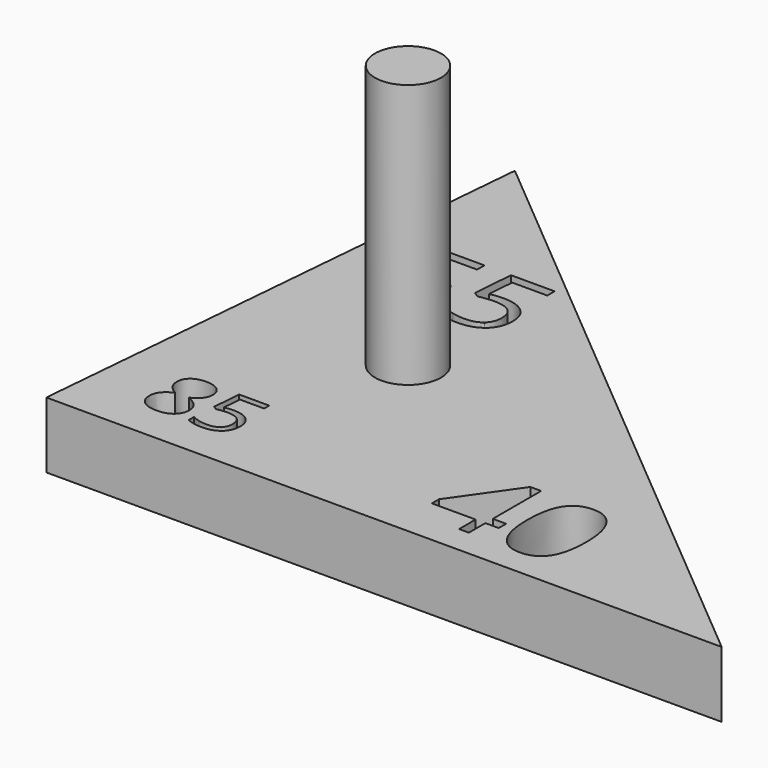
from build123d import *

# Parameters (mm, degrees)
F1_DEPTH = 6.35
F2_R     = 3.175
F3_DEPTH = 25.4


with BuildPart() as f1:
    # F0 (on Top) → F1 (new body)
    with BuildSketch(Plane.XY):
        Polygon((0, 0), (-60.5410825038, 50.8), (-64.9855066109, 0), align=None)
        with BuildLine():
            add(Edge.make_bspline(
                [(-58.459534205, 9.1367480254), (-57.9914250831, 9.5130210253), (-57.2057160392, 9.5130210253)],
                knots=[0, 0, 0, 1, 1, 1], degree=2))
            add(Edge.make_bspline(
                [(-57.2057160392, 9.5130210253), (-56.4085274801, 9.5130210253), (-55.9423316107, 9.142487783)],
                knots=[0, 0, 0, 1, 1, 1], degree=2))
            add(Edge.make_bspline(
                [(-55.9423316107, 9.142487783), (-55.4761357414, 8.7719545407), (-55.4761357414, 8.1188976731)],
                knots=[0, 0, 0, 1, 1, 1], degree=2))
            add(Edge.make_bspline(
                [(-55.4761357414, 8.1188976731), (-55.4761357414, 7.6877781003), (-55.7427155955, 7.3331886292)],
                knots=[0, 0, 0, 1, 1, 1], degree=2))
            add(Edge.make_bspline(
                [(-55.7427155955, 7.3331886292), (-56.0092954497, 6.9785991581), (-56.5960262292, 6.6877847718)],
                knots=[0, 0, 0, 1, 1, 1], degree=2))
            add(Edge.make_bspline(
                [(-56.5960262292, 6.6877847718), (-55.886847287, 6.348501321), (-55.5877421397, 5.9760548262)],
                knots=[0, 0, 0, 1, 1, 1], degree=2))
            add(Edge.make_bspline(
                [(-55.5877421397, 5.9760548262), (-55.2886369923, 5.6036083314), (-55.2886369923, 5.1125401789)],
                knots=[0, 0, 0, 1, 1, 1], degree=2))
            add(Edge.make_bspline(
                [(-55.2886369923, 5.1125401789), (-55.2886369923, 4.3880552164), (-55.795011165, 3.9550223911)],
                knots=[0, 0, 0, 1, 1, 1], degree=2))
            add(Edge.make_bspline(
                [(-55.795011165, 3.9550223911), (-56.3013853378, 3.5219895658), (-57.181481507, 3.5219895658)],
                knots=[0, 0, 0, 1, 1, 1], degree=2))
            add(Edge.make_bspline(
                [(-57.181481507, 3.5219895658), (-58.1138732458, 3.5219895658), (-58.6164209134, 3.9307878589)],
                knots=[0, 0, 0, 1, 1, 1], degree=2))
            add(Edge.make_bspline(
                [(-58.6164209134, 3.9307878589), (-59.1189685811, 4.339586152), (-59.1189685811, 5.0895811484)],
                knots=[0, 0, 0, 1, 1, 1], degree=2))
            add(Edge.make_bspline(
                [(-59.1189685811, 5.0895811484), (-59.1189685811, 6.089574477), (-57.8995889611, 6.6482442192)],
                knots=[0, 0, 0, 1, 1, 1], degree=2))
            add(Edge.make_bspline(
                [(-57.8995889611, 6.6482442192), (-58.4493301915, 6.958191131), (-58.6884867592, 7.3191581106)],
                knots=[0, 0, 0, 1, 1, 1], degree=2))
            add(Edge.make_bspline(
                [(-58.6884867592, 7.3191581106), (-58.9276433269, 7.6801250901), (-58.9276433269, 8.1265506833)],
                knots=[0, 0, 0, 1, 1, 1], degree=2))
            add(Edge.make_bspline(
                [(-58.9276433269, 8.1265506833), (-58.9276433269, 8.7604750255), (-58.459534205, 9.1367480254)],
                knots=[0, 0, 0, 1, 1, 1], degree=2))
        make_face(mode=Mode.SUBTRACT)
        with BuildLine():
            add(Edge.make_bspline(
                [(-53.5590566944, 7.0704352801), (-53.1011515861, 7.1622714021), (-52.6457974811, 7.1622714021)],
                knots=[0, 0, 0, 1, 1, 1], degree=2))
            add(Edge.make_bspline(
                [(-52.6457974811, 7.1622714021), (-51.7248852576, 7.1622714021), (-51.196827556, 6.7056417955)],
                knots=[0, 0, 0, 1, 1, 1], degree=2))
            add(Edge.make_bspline(
                [(-51.196827556, 6.7056417955), (-50.6687698545, 6.2490121888), (-50.6687698545, 5.4556501348)],
                knots=[0, 0, 0, 1, 1, 1], degree=2))
            add(Edge.make_bspline(
                [(-50.6687698545, 5.4556501348), (-50.6687698545, 4.5513194333), (-51.2446588696, 4.0366544996)],
                knots=[0, 0, 0, 1, 1, 1], degree=2))
            add(Edge.make_bspline(
                [(-51.2446588696, 4.0366544996), (-51.8205478847, 3.5219895658), (-52.8332962302, 3.5219895658)],
                knots=[0, 0, 0, 1, 1, 1], degree=2))
            add(Edge.make_bspline(
                [(-52.8332962302, 3.5219895658), (-53.8179835384, 3.5219895658), (-54.3358372264, 3.8370384844)],
                knots=[0, 0, 0, 1, 1, 1], degree=2))
            Line((-54.3358372264, 3.8370384844), (-54.3358372264, 4.4747893317))
            add(Edge.make_bspline(
                [(-54.3358372264, 4.4747893317), (-54.057777857, 4.2962190944), (-53.6432398063, 4.1941789588)],
                knots=[0, 0, 0, 1, 1, 1], degree=2))
            add(Edge.make_bspline(
                [(-53.6432398063, 4.1941789588), (-53.2287017555, 4.0921388233), (-52.82564322, 4.0921388233)],
                knots=[0, 0, 0, 1, 1, 1], degree=2))
            add(Edge.make_bspline(
                [(-52.82564322, 4.0921388233), (-52.124117288, 4.0921388233), (-51.735727022, 4.423131513)],
                knots=[0, 0, 0, 1, 1, 1], degree=2))
            add(Edge.make_bspline(
                [(-51.735727022, 4.423131513), (-51.347336756, 4.7541242028), (-51.347336756, 5.3803955348)],
                knots=[0, 0, 0, 1, 1, 1], degree=2))
            add(Edge.make_bspline(
                [(-51.347336756, 5.3803955348), (-51.347336756, 6.5997751548), (-52.8409492404, 6.5997751548)],
                knots=[0, 0, 0, 1, 1, 1], degree=2))
            add(Edge.make_bspline(
                [(-52.8409492404, 6.5997751548), (-53.2197732437, 6.5997751548), (-53.8536975859, 6.4837045006)],
                knots=[0, 0, 0, 1, 1, 1], degree=2))
            Line((-53.8536975859, 6.4837045006), (-54.1968075417, 6.7030907921))
            Line((-54.1968075417, 6.7030907921), (-53.9774212502, 9.4301134151))
            Line((-53.9774212502, 9.4301134151), (-51.0794814001, 9.4301134151))
            Line((-51.0794814001, 9.4301134151), (-51.0794814001, 8.8204236051))
            Line((-51.0794814001, 8.8204236051), (-53.4110984978, 8.8204236051))
            Line((-53.4110984978, 8.8204236051), (-53.5590566944, 7.0704352801))
        make_face(mode=Mode.SUBTRACT)
        Polygon((-25.1692710203, 5.5350187531), (-25.1692710203, 4.6416738651), (-26.4525079569, 4.6416738651), (-26.4525079569, 2.6543600252), (-27.3931698412, 2.6543600252), (-27.3931698412, 4.6416738651), (-31.5987044623, 4.6416738651), (-31.5987044623, 5.499057836), (-27.4934818731, 11.3493312447), (-26.4525079569, 11.3493312447), (-26.4525079569, 5.5350187531), align=None, mode=Mode.SUBTRACT)
        with BuildLine():
            add(Edge.make_bspline(
                [(-19.3341390504, 10.2960549095), (-18.6035646293, 9.1538226216), (-18.6035646293, 6.9904895558)],
                knots=[0, 0, 0, 1, 1, 1], degree=2))
            add(Edge.make_bspline(
                [(-18.6035646293, 6.9904895558), (-18.6035646293, 4.7476639365), (-19.3104805523, 3.6413925657)],
                knots=[0, 0, 0, 1, 1, 1], degree=2))
            add(Edge.make_bspline(
                [(-19.3104805523, 3.6413925657), (-20.0173964754, 2.5351211948), (-21.4728672781, 2.5351211948)],
                knots=[0, 0, 0, 1, 1, 1], degree=2))
            add(Edge.make_bspline(
                [(-21.4728672781, 2.5351211948), (-22.8677723258, 2.5351211948), (-23.5955077271, 3.6678900835)],
                knots=[0, 0, 0, 1, 1, 1], degree=2))
            add(Edge.make_bspline(
                [(-23.5955077271, 3.6678900835), (-24.3232431285, 4.8006589723), (-24.3232431285, 6.9904895558)],
                knots=[0, 0, 0, 1, 1, 1], degree=2))
            add(Edge.make_bspline(
                [(-24.3232431285, 6.9904895558), (-24.3232431285, 9.2484566139), (-23.6191662252, 10.3433719057)],
                knots=[0, 0, 0, 1, 1, 1], degree=2))
            add(Edge.make_bspline(
                [(-23.6191662252, 10.3433719057), (-22.9150893219, 11.4382871975), (-21.4728672781, 11.4382871975)],
                knots=[0, 0, 0, 1, 1, 1], degree=2))
            add(Edge.make_bspline(
                [(-21.4728672781, 11.4382871975), (-20.0647134716, 11.4382871975), (-19.3341390504, 10.2960549095)],
                knots=[0, 0, 0, 1, 1, 1], degree=2))
        make_face(mode=Mode.SUBTRACT)
        with BuildLine():
            add(Edge.make_bspline(
                [(-56.295432625, 33.9325300153), (-55.632851454, 34.0654153755), (-54.973961543, 34.0654153755)],
                knots=[0, 0, 0, 1, 1, 1], degree=2))
            add(Edge.make_bspline(
                [(-54.973961543, 34.0654153755), (-53.641416681, 34.0654153755), (-52.8773258599, 33.4046798345)],
                knots=[0, 0, 0, 1, 1, 1], degree=2))
            add(Edge.make_bspline(
                [(-52.8773258599, 33.4046798345), (-52.1132350388, 32.7439442935), (-52.1132350388, 31.5959624318)],
                knots=[0, 0, 0, 1, 1, 1], degree=2))
            add(Edge.make_bspline(
                [(-52.1132350388, 31.5959624318), (-52.1132350388, 30.2874107598), (-52.946536985, 29.5426990537)],
                knots=[0, 0, 0, 1, 1, 1], degree=2))
            add(Edge.make_bspline(
                [(-52.946536985, 29.5426990537), (-53.7798389312, 28.7979873476), (-55.2452691534, 28.7979873476)],
                knots=[0, 0, 0, 1, 1, 1], degree=2))
            add(Edge.make_bspline(
                [(-55.2452691534, 28.7979873476), (-56.6700955155, 28.7979873476), (-57.4194212967, 29.2538579583)],
                knots=[0, 0, 0, 1, 1, 1], degree=2))
            Line((-57.4194212967, 29.2538579583), (-57.4194212967, 30.1766729597))
            add(Edge.make_bspline(
                [(-57.4194212967, 30.1766729597), (-57.0170739561, 29.9182847593), (-56.4172442052, 29.7706343591)],
                knots=[0, 0, 0, 1, 1, 1], degree=2))
            add(Edge.make_bspline(
                [(-56.4172442052, 29.7706343591), (-55.8174144543, 29.6229839588), (-55.2341953734, 29.6229839588)],
                knots=[0, 0, 0, 1, 1, 1], degree=2))
            add(Edge.make_bspline(
                [(-55.2341953734, 29.6229839588), (-54.2190988719, 29.6229839588), (-53.6571045361, 30.1019249446)],
                knots=[0, 0, 0, 1, 1, 1], degree=2))
            add(Edge.make_bspline(
                [(-53.6571045361, 30.1019249446), (-53.0951102002, 30.5808659303), (-53.0951102002, 31.4870702616)],
                knots=[0, 0, 0, 1, 1, 1], degree=2))
            add(Edge.make_bspline(
                [(-53.0951102002, 31.4870702616), (-53.0951102002, 33.2514925442), (-55.2563429334, 33.2514925442)],
                knots=[0, 0, 0, 1, 1, 1], degree=2))
            add(Edge.make_bspline(
                [(-55.2563429334, 33.2514925442), (-55.8044950443, 33.2514925442), (-56.7217731556, 33.083540214)],
                knots=[0, 0, 0, 1, 1, 1], degree=2))
            Line((-56.7217731556, 33.083540214), (-57.2182476264, 33.4009885745))
            Line((-57.2182476264, 33.4009885745), (-56.9007992659, 37.3469455203))
            Line((-56.9007992659, 37.3469455203), (-52.7075278996, 37.3469455203))
            Line((-52.7075278996, 37.3469455203), (-52.7075278996, 36.464734379))
            Line((-52.7075278996, 36.464734379), (-56.0813395447, 36.464734379))
            Line((-56.0813395447, 36.464734379), (-56.295432625, 33.9325300153))
        make_face(mode=Mode.SUBTRACT)
        with BuildLine():
            add(Edge.make_bspline(
                [(-49.5422724449, 33.9325300153), (-48.8796912739, 34.0654153755), (-48.220801363, 34.0654153755)],
                knots=[0, 0, 0, 1, 1, 1], degree=2))
            add(Edge.make_bspline(
                [(-48.220801363, 34.0654153755), (-46.888256501, 34.0654153755), (-46.1241656798, 33.4046798345)],
                knots=[0, 0, 0, 1, 1, 1], degree=2))
            add(Edge.make_bspline(
                [(-46.1241656798, 33.4046798345), (-45.3600748587, 32.7439442935), (-45.3600748587, 31.5959624318)],
                knots=[0, 0, 0, 1, 1, 1], degree=2))
            add(Edge.make_bspline(
                [(-45.3600748587, 31.5959624318), (-45.3600748587, 30.2874107598), (-46.1933768049, 29.5426990537)],
                knots=[0, 0, 0, 1, 1, 1], degree=2))
            add(Edge.make_bspline(
                [(-46.1933768049, 29.5426990537), (-47.0266787512, 28.7979873476), (-48.4921089734, 28.7979873476)],
                knots=[0, 0, 0, 1, 1, 1], degree=2))
            add(Edge.make_bspline(
                [(-48.4921089734, 28.7979873476), (-49.9169353355, 28.7979873476), (-50.6662611166, 29.2538579583)],
                knots=[0, 0, 0, 1, 1, 1], degree=2))
            Line((-50.6662611166, 29.2538579583), (-50.6662611166, 30.1766729597))
            add(Edge.make_bspline(
                [(-50.6662611166, 30.1766729597), (-50.263913776, 29.9182847593), (-49.6640840251, 29.7706343591)],
                knots=[0, 0, 0, 1, 1, 1], degree=2))
            add(Edge.make_bspline(
                [(-49.6640840251, 29.7706343591), (-49.0642542742, 29.6229839588), (-48.4810351934, 29.6229839588)],
                knots=[0, 0, 0, 1, 1, 1], degree=2))
            add(Edge.make_bspline(
                [(-48.4810351934, 29.6229839588), (-47.4659386918, 29.6229839588), (-46.903944356, 30.1019249446)],
                knots=[0, 0, 0, 1, 1, 1], degree=2))
            add(Edge.make_bspline(
                [(-46.903944356, 30.1019249446), (-46.3419500202, 30.5808659303), (-46.3419500202, 31.4870702616)],
                knots=[0, 0, 0, 1, 1, 1], degree=2))
            add(Edge.make_bspline(
                [(-46.3419500202, 31.4870702616), (-46.3419500202, 33.2514925442), (-48.5031827534, 33.2514925442)],
                knots=[0, 0, 0, 1, 1, 1], degree=2))
            add(Edge.make_bspline(
                [(-48.5031827534, 33.2514925442), (-49.0513348642, 33.2514925442), (-49.9686129756, 33.083540214)],
                knots=[0, 0, 0, 1, 1, 1], degree=2))
            Line((-49.9686129756, 33.083540214), (-50.4650874463, 33.4009885745))
            Line((-50.4650874463, 33.4009885745), (-50.1476390858, 37.3469455203))
            Line((-50.1476390858, 37.3469455203), (-45.9543677196, 37.3469455203))
            Line((-45.9543677196, 37.3469455203), (-45.9543677196, 36.464734379))
            Line((-45.9543677196, 36.464734379), (-49.3281793646, 36.464734379))
            Line((-49.3281793646, 36.464734379), (-49.5422724449, 33.9325300153))
        make_face(mode=Mode.SUBTRACT)
    extrude(amount=F1_DEPTH)

    # F2 (on face) → F3 (join)
    with BuildSketch(Plane.XY.offset(6.35)):
        with Locations((-47.0200963318, 21.0452843457)):
            Circle(F2_R)
    extrude(amount=F3_DEPTH)


solid = f1.part
